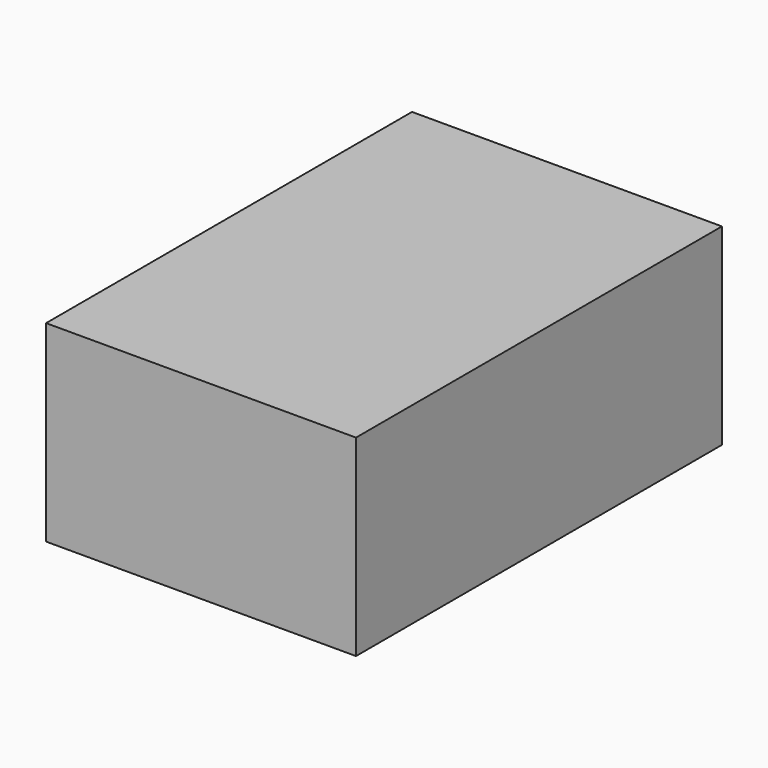
from build123d import *

# Parameters (mm, degrees)
SKETCH002_W = 29
SKETCH002_H = 42.8
PAD_DEPTH   = 18


with BuildPart() as part:
    # Sketch002 → Pad (new body)
    with BuildSketch(Plane.XY):
        Rectangle(SKETCH002_W, SKETCH002_H)
    extrude(amount=PAD_DEPTH)


solid = part.part
